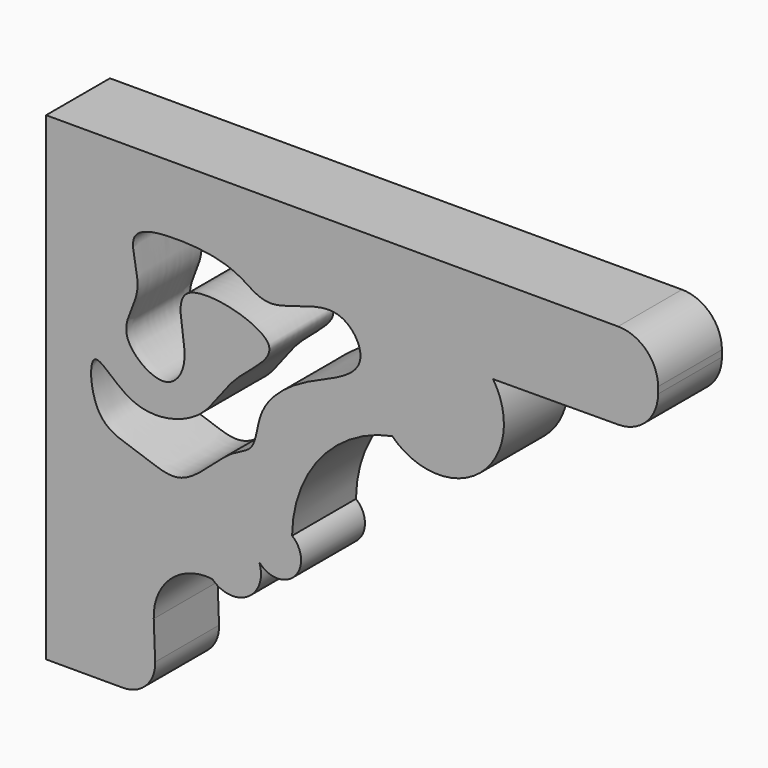
from build123d import *

# Parameters (mm, degrees)
F1_DEPTH = 50


with BuildPart() as f1:
    # F0 (on Front) → F1 (new body)
    with BuildSketch(Plane.XZ):
        with BuildLine():
            Line((83.3219736814, 221.8314821937), (-274.8625851565, 221.8314821937))
            Line((-274.8625851565, 221.8314821937), (-274.8625851565, -78.1685178063))
            Line((-274.8625851565, -78.1685178063), (-226.5407562396, -78.1685178063))
            ThreePointArc((-226.5407562396, -78.1685178063), (-212.1317213797, -72.0386192625), (-206.5552787003, -57.4064892468))
            Line((-206.5552787003, -57.4064892468), (-207.4536391848, -33.8454782287))
            ThreePointArc((-207.4536391848, -33.8454782287), (-196.9249165287, -8.4839343376), (-170.8081639077, 0))
            ThreePointArc((-170.8081639077, 0), (-148.5020554157, -2.3998212364), (-141.3989868763, 18.8808750714))
            ThreePointArc((-141.3989868763, 18.8808750714), (-119.3783008793, 18.1054061462), (-120.8235216731, 40.0922954371))
            ThreePointArc((-120.8235216731, 40.0922954371), (-102.9053295383, 88.905550723), (-58.1637322903, 115.400549811))
            ThreePointArc((-58.1637322903, 115.400549811), (-3.2005174523, 112.9409832271), (5.0315177017, 167.3398623546))
            Line((5.0315177017, 167.3398623546), (83.4524609012, 167.7491851642))
            ThreePointArc((83.4524609012, 167.7491851642), (101.0457173674, 175.1173696497), (108.3219736814, 192.7488446236))
            Line((108.3219736814, 192.7488446236), (108.3219736814, 196.8314821937))
            ThreePointArc((108.3219736814, 196.8314821937), (100.9996432111, 214.5091517234), (83.3219736814, 221.8314821937))
        make_face()
        with BuildLine():
            ThreePointArc((-144.118633545, 23.724026989), (-142.5696563693, 21.4086693821), (-141.3989868763, 18.8808750714))
            ThreePointArc((-141.3989868763, 18.8808750714), (-142.9872515651, 21.1741709806), (-144.118633545, 23.724026989))
        make_face(mode=Mode.SUBTRACT)
        with BuildLine():
            add(Edge.make_bspline(
                [(-219.5752710104, 172.4440008402), (-216.685769818, 178.6691763064), (-191.8057339626, 181.6289333018), (-154.6277511221, 176.9141959142), (-135.3559777396, 156.0372595726), (-91.6574574312, 183.108444247), (-68.0330615865, 144.6392255693), (-109.9044638938, 130.208223219), (-129.1319641137, 117.5388009918), (-142.4199094382, 101.503630357), (-143.4632155233, 78.0328638905), (-161.2869894881, 75.0669509139), (-188.8445970033, 41.52273626), (-215.412099225, 55.9625904017), (-246.084190544, 60.7325037319), (-249.333572694, 111.7922364023), (-221.0767619727, 72.2209502836), (-174.043286682, 83.7673596839), (-161.8096001165, 115.415466186), (-113.2422230465, 144.0198853258), (-204.0690594357, 166.7072709808), (-181.8253900065, 116.6406512362), (-199.7298610349, 90.5799599722), (-234.1897400969, 117.3668485961), (-210.9378042781, 143.2513607599), (-222.5105798634, 166.1201368095), (-219.5752710104, 172.4440008402)],
                knots=[0, 0, 0, 0, 0.0394957909, 0.0869244931, 0.1241970835, 0.1734196877, 0.2124166967, 0.2579577216, 0.2959631016, 0.3299109952, 0.3639161457, 0.3942786302, 0.4413484662, 0.4803497432, 0.521712404, 0.562573398, 0.6031206673, 0.6521622673, 0.6982124132, 0.741737586, 0.7966032407, 0.8419018734, 0.8780558453, 0.9192319931, 0.9598780769, 1, 1, 1, 1], degree=3))
        make_face(mode=Mode.SUBTRACT)
        with BuildLine():
            ThreePointArc((-144.118633545, 23.724026989), (-142.9872515651, 21.1741709806), (-141.3989868763, 18.8808750714))
            ThreePointArc((-141.3989868763, 18.8808750714), (-142.5696563693, 21.4086693821), (-144.118633545, 23.724026989))
        make_face()
    extrude(amount=F1_DEPTH)


solid = f1.part
